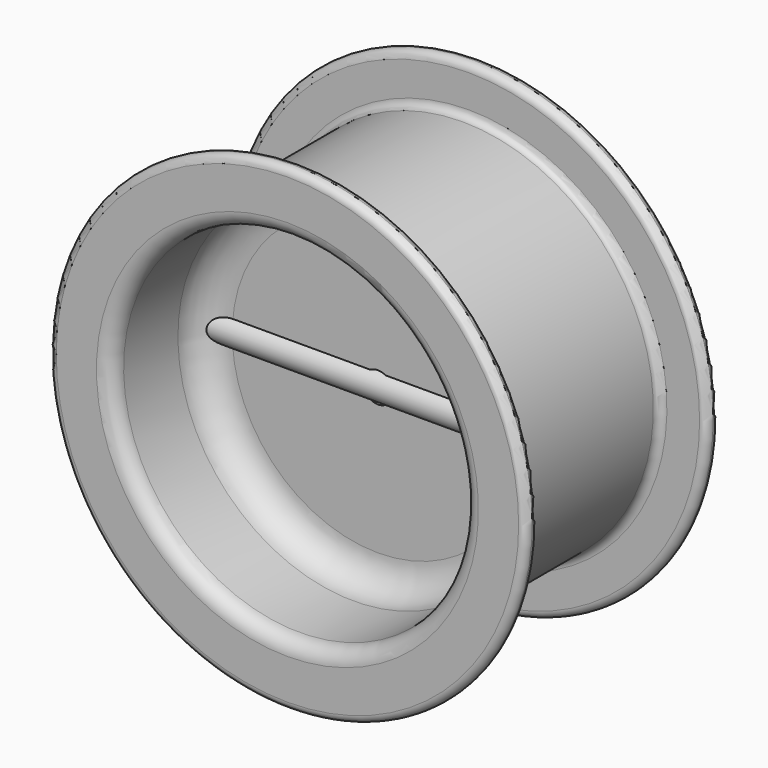
from build123d import *

# Parameters (mm, degrees)
F2_R     = 6
F3_DEPTH = 75


with BuildPart() as f1:
    # F0 (on Right) → F1 (revolve)
    with BuildSketch(Plane.YZ):
        with BuildLine():
            Line((-3, 6), (0, 6))
            Line((0, 6), (3, 6))
            Line((3, 6), (3, 58))
            ThreePointArc((3, 58), (6.514719, 66.485281), (15, 70))
            Line((15, 70), (39, 70))
            ThreePointArc((39, 70), (45.363961, 72.636039), (48, 79))
            Line((48, 79), (48, 92))
            ThreePointArc((48, 92), (47.12132, 94.12132), (45, 95))
            ThreePointArc((45, 95), (42.87868, 94.12132), (42, 92))
            Line((42, 92), (42, 79))
            ThreePointArc((42, 79), (41.12132, 76.87868), (39, 76))
            Line((39, 76), (-39, 76))
            ThreePointArc((-39, 76), (-41.12132, 76.87868), (-42, 79))
            Line((-42, 79), (-42, 92))
            ThreePointArc((-42, 92), (-42.87868, 94.12132), (-45, 95))
            ThreePointArc((-45, 95), (-47.12132, 94.12132), (-48, 92))
            Line((-48, 92), (-48, 76))
            ThreePointArc((-48, 76), (-46.242641, 71.757359), (-42, 70))
            Line((-42, 70), (-15, 70))
            ThreePointArc((-15, 70), (-6.514719, 66.485281), (-3, 58))
            Line((-3, 58), (-3, 6))
        make_face()
    revolve(axis=Axis((0, -15, 0), (0, -1, 0)))


with BuildPart() as f3:
    # F2 (on Right) → F3 (new body, symmetric)
    with BuildSketch(Plane.YZ):
        Circle(F2_R)
    extrude(amount=F3_DEPTH, both=True)


solid = Compound([f1.part, f3.part])
